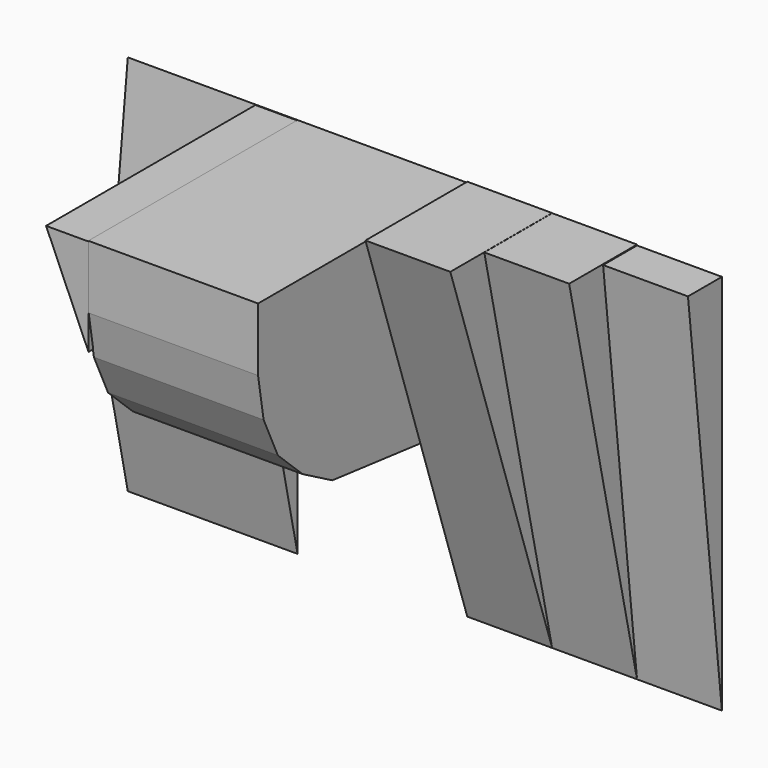
from build123d import *

# Parameters (mm, degrees)
F1_START  = 2438.4
F1_DEPTH  = 1219.2
F3_DEPTH  = 2438.4
F5_START  = 1219.2
F5_DEPTH  = 1219.2
F7_DEPTH  = 1219.2
F9_START  = -2438.4
F9_DEPTH  = 2438.4
F11_DEPTH = 3759.2


with BuildPart() as f1:
    # F0 (on Right) → F1 (new body)
    with BuildSketch(Plane.YZ.offset(F1_START)):
        Polygon((-609.6, 5486.4), (0, 0), (0, 5486.4), align=None)
    extrude(amount=F1_DEPTH)

    # F4 (on Right) → F5 (join)
    with BuildSketch(Plane.YZ.offset(F5_START)):
        Polygon((0, 0), (0, 5498.0664253235), (-1219.2, 5498.0664253235), align=None)
    extrude(amount=F5_DEPTH)


with BuildPart() as f3:
    # F2 (on Right) → F3 (new body)
    with BuildSketch(Plane.YZ):
        Polygon((-2423.4264762868, 2708.2122940714), (0, 2438.4), (0, 5486.4), (-3756.2441038375, 5486.4), (-3756.2441038375, 4575.6455188824), (-3656.8710018597, 3974.1996388539), (-3401.2188868615, 3420.7972932707), (-2956.5863139944, 3003.7672761909), align=None)
    extrude(amount=-F3_DEPTH)

    # F8 (on Right) → F9 (join)
    with BuildSketch(Plane.YZ.offset(F9_START)):
        Polygon((-395.93359828, 1828.8), (0, 0), (0, 1828.8), align=None)
        Polygon((-395.93359828, 1828.8), (0, 1828.8), (0, 5486.4), align=None)
    extrude(amount=-F9_DEPTH)

    # F10 (on Front) → F11 (join)
    with BuildSketch(Plane.XZ):
        Polygon((-3043.0619045258, 5479.9123060755), (-2433.4619045258, 4083.1432342529), (-2433.4619045258, 5479.9123060755), align=None)
    extrude(amount=F11_DEPTH)


with BuildPart() as f7:
    # F6 (on Right) → F7 (new body)
    with BuildSketch(Plane.YZ):
        Polygon((0, 0), (0, 5499.9370574951), (-1828.8, 5499.9370574951), align=None)
    extrude(amount=F7_DEPTH)


solid = Compound([f1.part, f3.part, f7.part])
